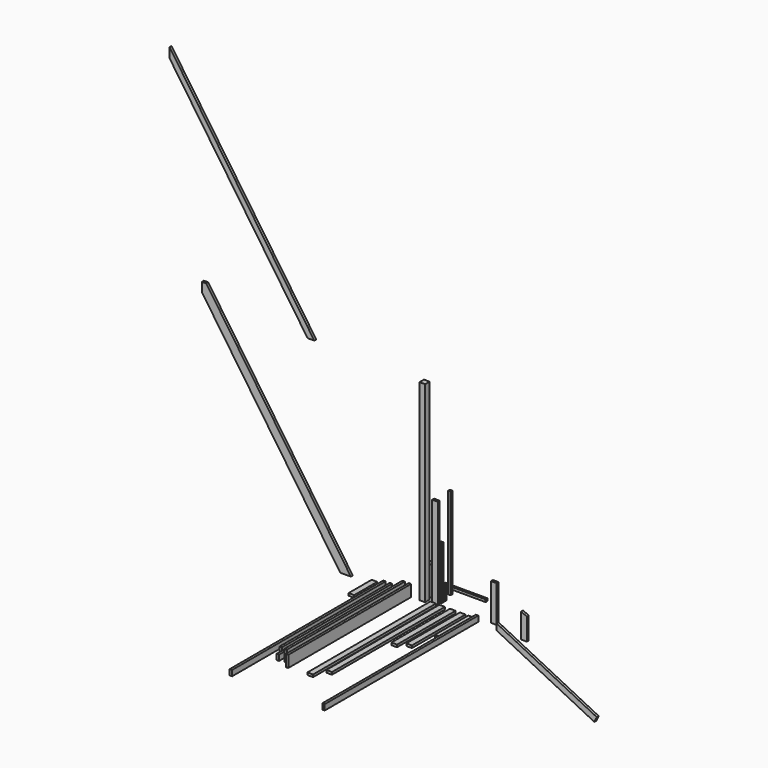
from build123d import *

# Parameters (mm, degrees)
F0_W      = 88.9
F0_H      = 88.9
F1_DEPTH  = 3048
F2_W      = 38.1
F2_H      = 184.15
F3_DEPTH  = 2438.4
F4_W      = 38.1
F4_H      = 184.15
F5_DEPTH  = 2343.15
F6_W      = 38.1
F6_H      = 88.9
F7_DEPTH  = 2362.2
F8_W      = 38.1
F8_H      = 88.9
F9_DEPTH  = 2184.4
F10_W     = 38.1
F10_H     = 88.9
F11_DEPTH = 3048
F12_W     = 88.9
F12_H     = 38.1
F13_DEPTH = 2438.4
F14_W     = 88.9
F14_H     = 38.1
F15_DEPTH = 1447.8
F16_W     = 88.9
F16_H     = 38.1
F17_DEPTH = 2241.55
F18_W     = 88.9
F18_H     = 38.1
F19_DEPTH = 1162.05
F20_W     = 88.9
F20_H     = 38.1
F21_DEPTH = 1063.625
F22_W     = 88.9
F22_H     = 38.1
F23_DEPTH = 838.2
F24_W     = 88.9
F24_H     = 38.1
F25_DEPTH = 228.6
F26_W     = 38.1
F26_H     = 88.9
F27_DEPTH = 3048
F29_DEPTH = 38.1
F30_W     = 88.9
F30_H     = 38.1
F31_DEPTH = 584.2
F33_DEPTH = 38.1
F34_W     = 38.1
F34_H     = 38.1
F35_DEPTH = 1447.8
F36_W     = 38.1
F36_H     = 38.1
F37_DEPTH = 673.1
F38_W     = 88.9
F38_H     = 38.1
F39_DEPTH = 663.575
F41_DEPTH = 38.1
F42_W     = 88.9
F42_H     = 88.9
F43_DEPTH = 457.2
F44_W     = 88.9
F44_H     = 38.1
F45_DEPTH = 457.2
F47_DEPTH = 38.1


with BuildPart() as f1:
    # F0 (on Top) → F1 (new body)
    with BuildSketch(Plane.XY):
        with Locations((44.45, 44.45)):
            Rectangle(F0_W, F0_H)
    extrude(amount=F1_DEPTH)


with BuildPart() as f3:
    # F2 (on Front) → F3 (new body)
    with BuildSketch(Plane.XZ):
        with Locations((-152.145111, 92.075)):
            Rectangle(F2_W, F2_H)
    extrude(amount=F3_DEPTH)


with BuildPart() as f5:
    # F4 (on Front) → F5 (new body)
    with BuildSketch(Plane.XZ):
        with Locations((-251.938462, 93.059584)):
            Rectangle(F4_W, F4_H)
    extrude(amount=F5_DEPTH)


with BuildPart() as f7:
    # F6 (on Front) → F7 (new body)
    with BuildSketch(Plane.XZ):
        with Locations((-358.850423, 44.45)):
            Rectangle(F6_W, F6_H)
    extrude(amount=F7_DEPTH)


with BuildPart() as f9:
    # F8 (on Front) → F9 (new body)
    with BuildSketch(Plane.XZ):
        with Locations((-453.140585, 44.45)):
            Rectangle(F8_W, F8_H)
    extrude(amount=F9_DEPTH)


with BuildPart() as f11:
    # F10 (on Front) → F11 (new body)
    with BuildSketch(Plane.XZ):
        with Locations((-556.416263, 44.45)):
            Rectangle(F10_W, F10_H)
    extrude(amount=F11_DEPTH)


with BuildPart() as f13:
    # F12 (on Front) → F13 (new body)
    with BuildSketch(Plane.XZ):
        with Locations((216.543773, 19.05)):
            Rectangle(F12_W, F12_H)
    extrude(amount=F13_DEPTH)


with BuildPart() as f15:
    # F14 (on Top) → F15 (new body)
    with BuildSketch(Plane.XY):
        with Locations((218.800828, 51.906373)):
            Rectangle(F14_W, F14_H)
    extrude(amount=F15_DEPTH)


with BuildPart() as f17:
    # F16 (on Front) → F17 (new body)
    with BuildSketch(Plane.XZ):
        with Locations((358.610243, 18.882283)):
            Rectangle(F16_W, F16_H)
    extrude(amount=F17_DEPTH)


with BuildPart() as f19:
    # F18 (on Front) → F19 (new body)
    with BuildSketch(Plane.XZ):
        with Locations((528.082251, 19.05)):
            Rectangle(F18_W, F18_H)
    extrude(amount=F19_DEPTH)


with BuildPart() as f21:
    # F20 (on Front) → F21 (new body)
    with BuildSketch(Plane.XZ):
        with Locations((686.372936, 18.864415)):
            Rectangle(F20_W, F20_H)
    extrude(amount=F21_DEPTH)


with BuildPart() as f23:
    # F22 (on Top) → F23 (new body)
    with BuildSketch(Plane.XY):
        with Locations((222.136453, 123.861335)):
            Rectangle(F22_W, F22_H)
    extrude(amount=F23_DEPTH)


with BuildPart() as f25:
    # F24 (on Top) → F25 (new body)
    with BuildSketch(Plane.XY):
        with Locations((220.343396, 184.217587)):
            Rectangle(F24_W, F24_H)
    extrude(amount=F25_DEPTH)


with BuildPart() as f27:
    # F26 (on Front) → F27 (new body)
    with BuildSketch(Plane.XZ):
        with Locations((913.741173, 44.45)):
            Rectangle(F26_W, F26_H)
    extrude(amount=F27_DEPTH)


with BuildPart() as f29:
    # F28 (on Front) → F29 (new body)
    with BuildSketch(Plane.XZ):
        Polygon((1254.287944, 99.336894), (1254.287944, 0), (2805.814253, -773.562482), (2845.481239, -694.002818), align=None)
    extrude(amount=F29_DEPTH)


with BuildPart() as f31:
    # F30 (on Top) → F31 (new body)
    with BuildSketch(Plane.XY):
        with Locations((1115.254879, 96.363492)):
            Rectangle(F30_W, F30_H)
    extrude(amount=F31_DEPTH)


with BuildPart() as f33:
    # F32 (on Front) → F33 (new body)
    with BuildSketch(Plane.XZ):
        Polygon((1644.772301, 393.7), (1644.772301, 0), (1733.672301, 0), (1733.672301, 349.376095), align=None)
    extrude(amount=F33_DEPTH)


with BuildPart() as f35:
    # F34 (on Top) → F35 (new body)
    with BuildSketch(Plane.XY):
        with Locations((198.38018, 362.738583)):
            Rectangle(F34_W, F34_H)
    extrude(amount=F35_DEPTH)


with BuildPart() as f37:
    # F36 (on Right) → F37 (new body)
    with BuildSketch(Plane.YZ):
        with Locations((490.231836, 19.05)):
            Rectangle(F36_W, F36_H)
    extrude(amount=F37_DEPTH)


with BuildPart() as f39:
    # F38 (on Front) → F39 (new body)
    with BuildSketch(Plane.XZ):
        with Locations((818.476231, 19.05)):
            Rectangle(F38_W, F38_H)
    extrude(amount=F39_DEPTH)


with BuildPart() as f41:
    # F40 (on Front) → F41 (new body)
    with BuildSketch(Plane.XZ):
        Polygon((-1228.48423, 0), (-1059.150897, 0), (-3355.850302, 3352.8), (-3424.703037, 3352.8), (-3424.703037, 3206.115), align=None)
    extrude(amount=F41_DEPTH)


with BuildPart() as f43:
    # F42 (on Top) → F43 (new body)
    with BuildSketch(Plane.XY):
        with Locations((44.45, 191.636031)):
            Rectangle(F42_W, F42_H)
    extrude(amount=F43_DEPTH)


with BuildPart() as f45:
    # F44 (on Front) → F45 (new body)
    with BuildSketch(Plane.XZ):
        with Locations((-716.190782, 19.05)):
            Rectangle(F44_W, F44_H)
    extrude(amount=F45_DEPTH)


with BuildPart() as f47:
    # F46 (on Front) → F47 (new body)
    with BuildSketch(Plane.XZ):
        Polygon((-1746.900376, 3110.51608), (-1639.1428, 3110.51608), (-3935.842205, 6463.31608), (-3943.119182, 6463.31608), (-3943.119182, 6316.63108), align=None)
    extrude(amount=F47_DEPTH)


solid = Compound([f1.part, f3.part, f5.part, f7.part, f9.part, f11.part, f13.part, f15.part, f17.part, f19.part, f21.part, f23.part, f25.part, f27.part, f29.part, f31.part, f33.part, f35.part, f37.part, f39.part, f41.part, f43.part, f45.part, f47.part])
